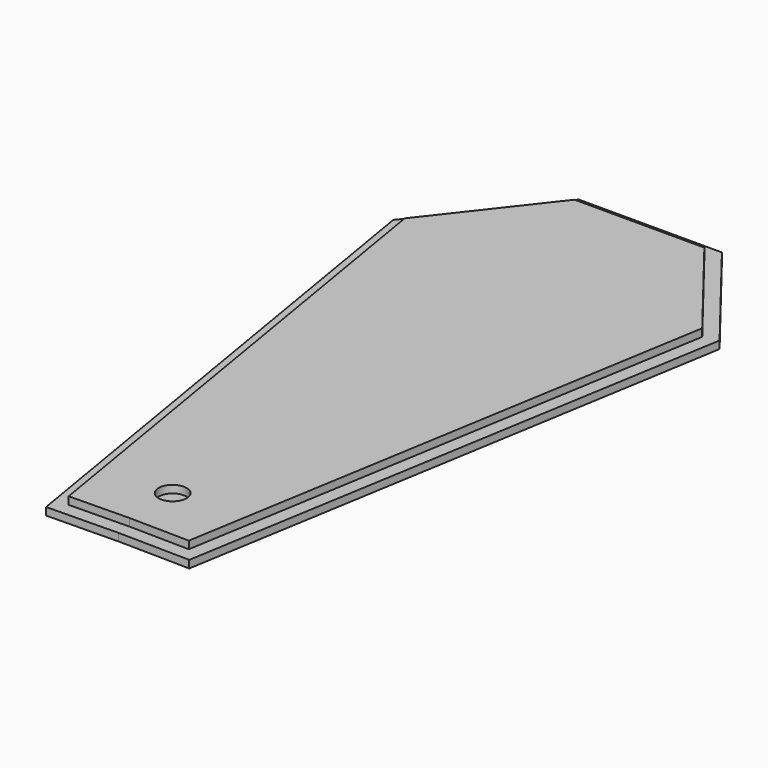
from build123d import *

# Parameters (mm, degrees)
F1_DEPTH = 1.27
F2_R     = 2.346552
F3_DEPTH = 2.54


with BuildPart() as f1:
    # F0 (on Top) → F1 (new body)
    with BuildSketch(Plane.XY):
        Polygon((12.012586, 46.803898), (0, 46.803898), (-12.012586, 46.803898), (-27.383965, 27.097), (-12.012586, -64.934207), (0, -64.73728), (12.012586, -64.934207), (27.383965, 27.097), align=None)
    extrude(amount=F1_DEPTH)

    # F2 (on face) → F3 (join)
    with BuildSketch(Plane.XY):
        Polygon((0, -62.450973), (10.082072, -62.616252), (24.963741, 26.482971), (10.896499, 44.517897), (0, 44.517897), (-10.896499, 44.517897), (-24.963741, 26.482971), (-10.082072, -62.616252), align=None)
        Polygon((20.66112, 25.391363), (6.650048, -58.495444), (0, -58.386427), (-6.650048, -58.495444), (-20.66112, 25.391363), (-8.912344, 40.453898), (0, 40.453898), (8.912344, 40.453898), align=None, mode=Mode.SUBTRACT)
        Polygon((0, -58.386427), (6.650048, -58.495444), (20.66112, 25.391363), (8.912344, 40.453898), (0, 40.453898), (-8.912344, 40.453898), (-20.66112, 25.391363), (-6.650048, -58.495444), align=None)
        with Locations((0, -53.407203)):
            Circle(F2_R, mode=Mode.SUBTRACT)
    extrude(amount=F3_DEPTH)


solid = f1.part
